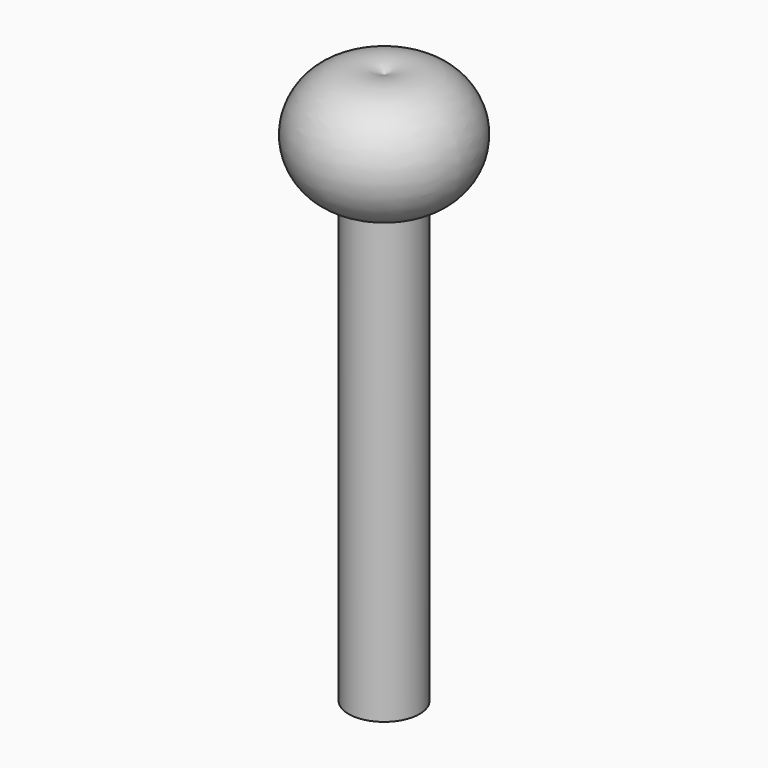
from build123d import *

# Parameters (mm, degrees)
F2_R     = 0.83
F3_DEPTH = 10.42


with BuildPart() as f1:
    # F0 (on Front) → F1 (revolve)
    with BuildSketch(Plane.XZ):
        with BuildLine():
            Line((0, 2.45), (0, 0))
            ThreePointArc((0, 0), (1.91734, 1.225), (0, 2.45))
        make_face()
    revolve(axis=Axis((0, 0, 1.225), (0, 0, 1)))

    # F2 (on Top) → F3 (join)
    with BuildSketch(Plane.XY):
        Circle(F2_R)
    extrude(amount=-F3_DEPTH)


solid = f1.part
